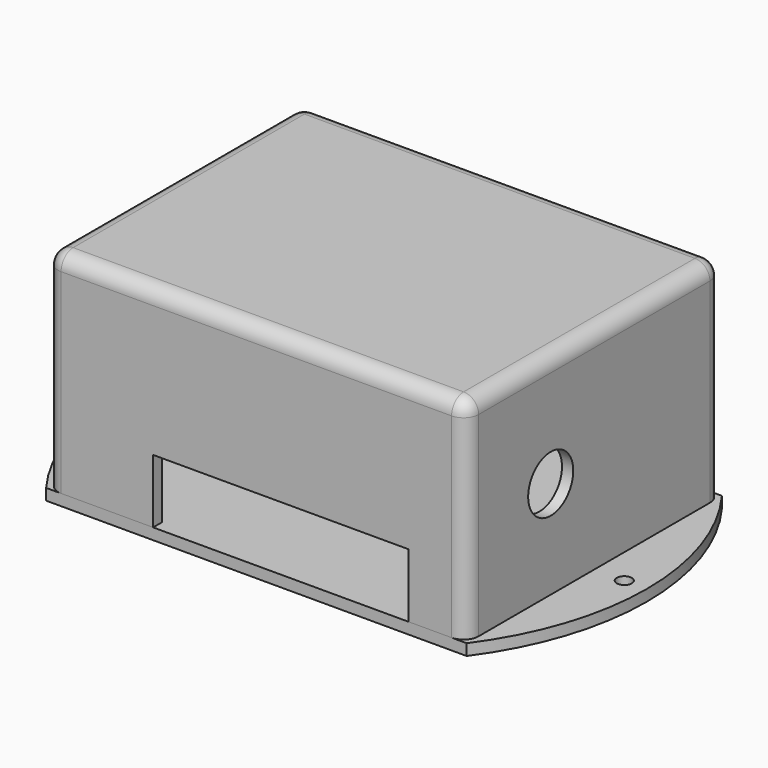
from build123d import *

# Parameters (mm, degrees)
F0_W      = 112
F0_H      = 85
F1_DEPTH  = 57
F2_R      = 4
F3_T      = -3
F4_W      = 129.328548
F4_H      = 101.21753
F5_DEPTH  = 1
F6_W      = 112
F6_H      = 85
F6_R      = 2
F7_DEPTH  = 3
F8_W      = 68
F8_H      = 17
F9_DEPTH  = 3
F10_W     = 33
F10_H     = 17
F11_DEPTH = 3
F12_R     = 10
F13_DEPTH = 3
F14_R     = 7.5
F15_DEPTH = 3


with BuildPart() as f1:
    # F0 (on Top) → F1 (new body)
    with BuildSketch(Plane.XY):
        Rectangle(F0_W, F0_H)
    extrude(amount=F1_DEPTH)

    # F2
    f2_edges = [f1.edges().sort_by_distance(p)[0] for p in [
        (56, -42.5, 28.5),
        (-56, -42.5, 28.5),
        (0, -42.5, 57),
        (-56, 0, 57),
        (56, 0, 57),
        (56, 42.5, 28.5),
        (0, 42.5, 57),
        (-56, 42.5, 28.5),
    ]]
    fillet(f2_edges, radius=F2_R)

    # F3
    f3_openings = [f1.faces().sort_by_distance(p)[0] for p in [
        (0, 0, 0),
    ]]
    offset(amount=F3_T, openings=f3_openings)

    # F4 (on face) → F5 (cut)
    with BuildSketch(Plane(origin=(0, 0, 0), x_dir=(1, 0, 0), z_dir=(0, 0, -1))):
        Rectangle(F4_W, F4_H)
        Polygon((52, -38.5), (52, -41.5), (-52, -41.5), (-52, -38.5), (-55, -38.5), (-55, 38.5), (-53, 38.5), (-52, 38.5), (-52, 41.5), (52, 41.5), (52, 38.5), (55, 38.5), (55, -38.5), align=None, mode=Mode.SUBTRACT)
    extrude(amount=-F5_DEPTH, mode=Mode.SUBTRACT)

    # F8 (on face) → F9 (cut)
    with BuildSketch(Plane.XZ.offset(42.5)):
        with Locations((6.5, 9.5)):
            Rectangle(F8_W, F8_H)
    extrude(amount=-F9_DEPTH, mode=Mode.SUBTRACT)

    # F10 (on face) → F11 (cut)
    with BuildSketch(Plane(origin=(0, 42.5, 0), x_dir=(-1, 0, 0), z_dir=(0, 1, 0))):
        with Locations((11, 9.5)):
            Rectangle(F10_W, F10_H)
    extrude(amount=-F11_DEPTH, mode=Mode.SUBTRACT)

    # F12 (on face) → F13 (cut)
    with BuildSketch(Plane(origin=(0, 42.5, 0), x_dir=(-1, 0, 0), z_dir=(0, 1, 0))):
        with Locations((38, 39)):
            Circle(F12_R)
    extrude(amount=-F13_DEPTH, mode=Mode.SUBTRACT)

    # F14 (on face) → F15 (cut)
    with BuildSketch(Plane.YZ.offset(56)):
        with Locations((-14.5, 27)):
            Circle(F14_R)
    extrude(amount=-F15_DEPTH, mode=Mode.SUBTRACT)


with BuildPart() as f7:
    # F6 (on face) → F7 (new body)
    with BuildSketch(Plane(origin=(0, 0, 1), x_dir=(1, 0, 0), z_dir=(0, 0, -1))):
        Rectangle(F6_W, F6_H)
        with BuildLine():
            ThreePointArc((56, -42.5), (70, 0), (56, 42.5))
            Line((56, 42.5), (56, -42.5))
        make_face()
        with Locations((64, 0)):
            Circle(F6_R, mode=Mode.SUBTRACT)
        with BuildLine():
            Line((-56, -42.5), (-56, 42.5))
            ThreePointArc((-56, 42.5), (-70, 0), (-56, -42.5))
        make_face()
        with Locations((-64, 0)):
            Circle(F6_R, mode=Mode.SUBTRACT)
    extrude(amount=F7_DEPTH)


solid = Compound([f1.part, f7.part])
